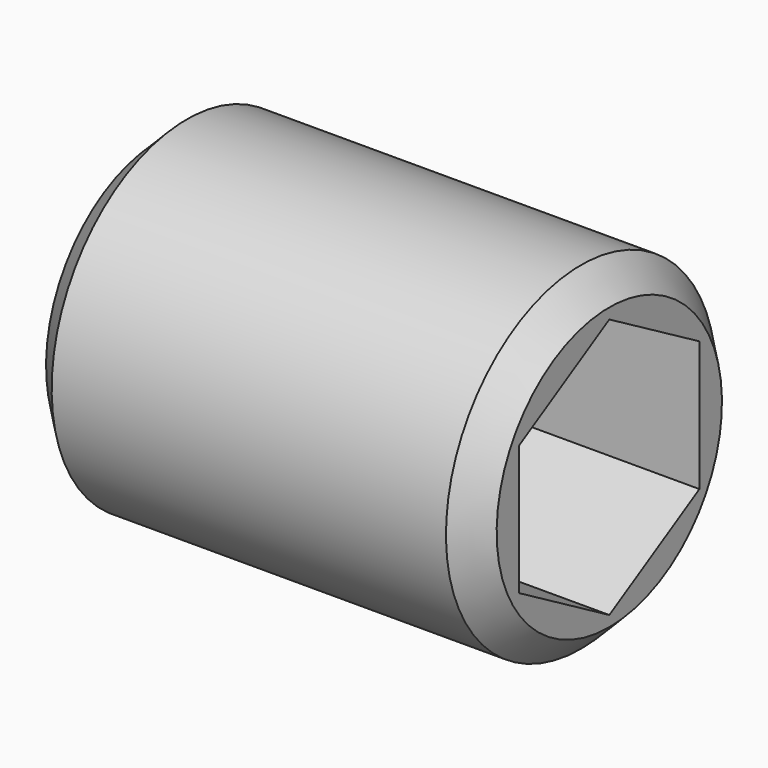
from build123d import *

# Parameters (mm, degrees)
CYLINDER006_R     = 1.5
CYLINDER006_DEPTH = 4
CHAMFER002_SIZE   = 0.25
POCKET_DEPTH      = 2.5


with BuildPart() as part:
    # Cylinder006 → Cylinder006 (new body)
    with BuildSketch(Plane(origin=(3, 0, 2.6), x_dir=(0, 0, -1), z_dir=(1, 0, 0))):
        Circle(CYLINDER006_R)
    extrude(amount=CYLINDER006_DEPTH)

    # Chamfer002
    chamfer002_edges = [part.edges().sort_by_distance(p)[0] for p in [
        (7, 0, 4.1),
        (3, 0, 4.1),
    ]]
    chamfer(chamfer002_edges, length=CHAMFER002_SIZE)

    # Sketch (on Face5 of Chamfer002) → Pocket (cut)
    with BuildSketch(Plane.YZ.offset(7)):
        Polygon((-1, 3.17735), (0, 3.754701), (1, 3.17735), (1, 2.02265), (0, 1.445299), (-1, 2.02265), align=None)
    extrude(amount=-POCKET_DEPTH, mode=Mode.SUBTRACT)


solid = part.part
